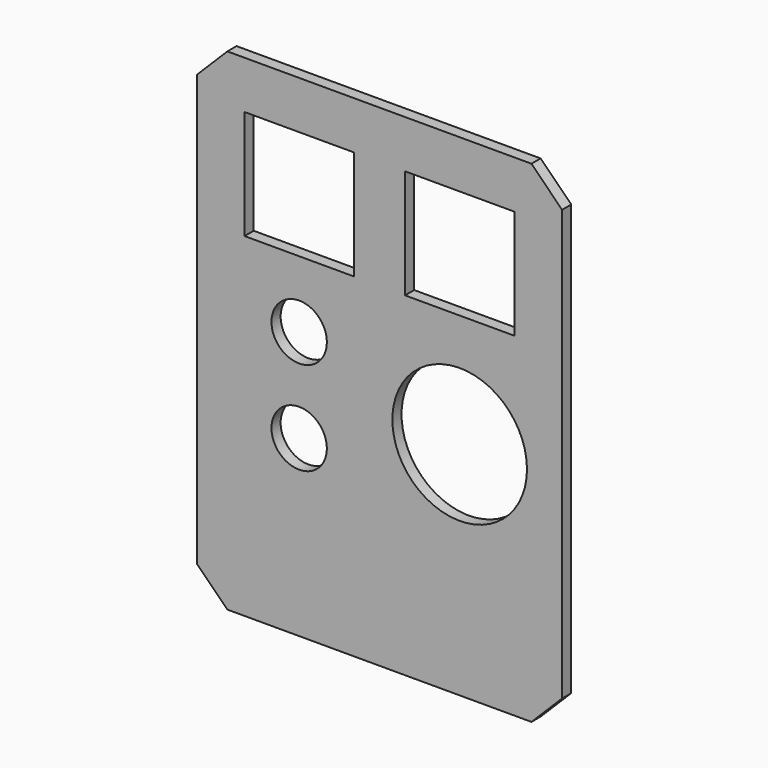
from build123d import *

# Parameters (mm, degrees)
F0_W     = 151.638
F0_H     = 204
F0_R     = 11.5
F0_R_2   = 27.94
F0_W_2   = 45.339
F0_H_2   = 45.339
F1_DEPTH = 4.7625
F2_SIZE  = 12.7


with BuildPart() as f1:
    # F0 (on Front) → F1 (new body)
    with BuildSketch(Plane.XZ):
        with Locations((75.819, -102)):
            Rectangle(F0_W, F0_H)
        with Locations((42.502667, -131.689877)):
            Circle(F0_R, mode=Mode.SUBTRACT)
        with Locations((109.135333, -112.280877)):
            Circle(F0_R_2, mode=Mode.SUBTRACT)
        with Locations((42.502667, -92.871877)):
            Circle(F0_R, mode=Mode.SUBTRACT)
        with Locations((42.502667, -42.502667)):
            Rectangle(F0_W_2, F0_H_2, mode=Mode.SUBTRACT)
        with Locations((109.135333, -42.502667)):
            Rectangle(F0_W_2, F0_H_2, mode=Mode.SUBTRACT)
    extrude(amount=F1_DEPTH)

    # F2
    f2_edges = [f1.edges().sort_by_distance(p)[0] for p in [
        (151.638, -2.38125, 0),
        (0, -2.38125, 0),
        (0, -2.38125, -204),
        (151.638, -2.38125, -204),
    ]]
    chamfer(f2_edges, length=F2_SIZE)


solid = f1.part
